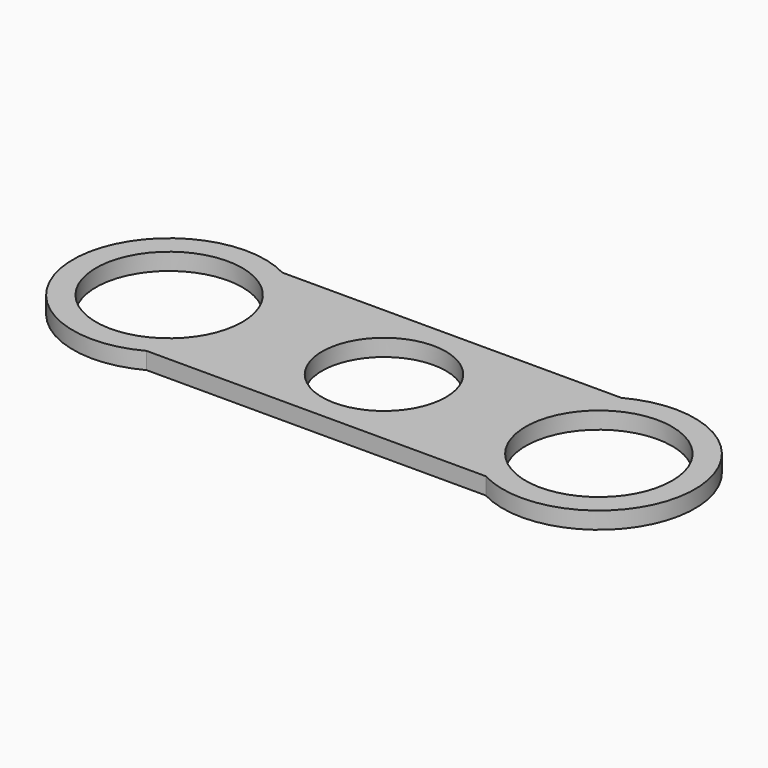
from build123d import *

# Parameters (mm, degrees)
F0_R     = 12.95
F0_R_2   = 10.95
F1_DEPTH = 3


with BuildPart() as f1:
    # F0 (on Top) → F1 (new body)
    with BuildSketch(Plane.XY):
        with BuildLine():
            Line((30, 15), (-30, 15))
            ThreePointArc((-30, 15), (-55, 0), (-30, -15))
            Line((-30, -15), (0, -15))
            Line((0, -15), (30, -15))
            ThreePointArc((30, -15), (55, 0), (30, 15))
        make_face()
        with Locations((-38, 0)):
            Circle(F0_R, mode=Mode.SUBTRACT)
        Circle(F0_R_2, mode=Mode.SUBTRACT)
        with Locations((38, 0)):
            Circle(F0_R, mode=Mode.SUBTRACT)
    extrude(amount=F1_DEPTH)


solid = f1.part
